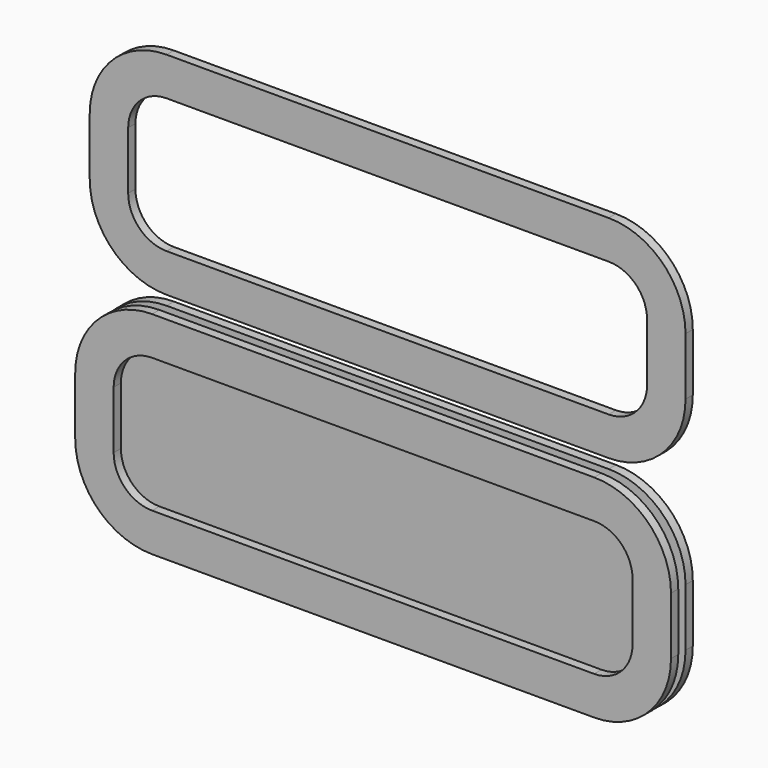
from build123d import *

# Parameters (mm, degrees)
F1_DEPTH = 6
F3_DEPTH = 6
F4_START = -6
F4_DEPTH = 6


with BuildPart() as f1:
    # F0 (on Front) → F1 (new body)
    with BuildSketch(Plane.XZ):
        with BuildLine():
            ThreePointArc((184.15, 25.4), (172.9907683632, 52.3407683632), (146.05, 63.5))
            Line((146.05, 63.5), (-146.05, 63.5))
            ThreePointArc((-146.05, 63.5), (-172.9907683632, 52.3407683632), (-184.15, 25.4))
            Line((-184.15, 25.4), (-184.15, -25.4))
            ThreePointArc((-184.15, -25.4), (-172.9907683632, -52.3407683632), (-146.05, -63.5))
            Line((-146.05, -63.5), (146.05, -63.5))
            ThreePointArc((146.05, -63.5), (172.9907683632, -52.3407683632), (184.15, -25.4))
            Line((184.15, -25.4), (184.15, 25.4))
        make_face()
    extrude(amount=-F1_DEPTH)


with BuildPart() as f3:
    # F2 (on Front) → F3 (new body)
    with BuildSketch(Plane.XZ):
        with BuildLine():
            ThreePointArc((196.85, 19.05), (181.9710244843, 54.9710244843), (146.05, 69.85))
            Line((146.05, 69.85), (-146.05, 69.85))
            ThreePointArc((-146.05, 69.85), (-181.9710244843, 54.9710244843), (-196.85, 19.05))
            Line((-196.85, 19.05), (-196.85, -19.05))
            ThreePointArc((-196.85, -19.05), (-181.9710244843, -54.9710244843), (-146.05, -69.85))
            Line((-146.05, -69.85), (146.05, -69.85))
            ThreePointArc((146.05, -69.85), (181.9710244843, -54.9710244843), (196.85, -19.05))
            Line((196.85, -19.05), (196.85, 19.05))
        make_face()
        with BuildLine():
            Line((-146.05, 44.45), (146.05, 44.45))
            ThreePointArc((146.05, 44.45), (164.0105122421, 37.0105122421), (171.45, 19.05))
            Line((171.45, 19.05), (171.45, -19.05))
            ThreePointArc((171.45, -19.05), (164.0105122421, -37.0105122421), (146.05, -44.45))
            Line((146.05, -44.45), (-146.05, -44.45))
            ThreePointArc((-146.05, -44.45), (-164.0105122421, -37.0105122421), (-171.45, -19.05))
            Line((-171.45, -19.05), (-171.45, 19.05))
            ThreePointArc((-171.45, 19.05), (-164.0105122421, 37.0105122421), (-146.05, 44.45))
        make_face(mode=Mode.SUBTRACT)
    extrude(amount=F3_DEPTH)


with BuildPart() as f4:
    # F2 (on Front) → F4 (new body)
    with BuildSketch(Plane.XZ.offset(F4_START)):
        with BuildLine():
            ThreePointArc((196.85, 19.05), (181.9710244843, 54.9710244843), (146.05, 69.85))
            Line((146.05, 69.85), (-146.05, 69.85))
            ThreePointArc((-146.05, 69.85), (-181.9710244843, 54.9710244843), (-196.85, 19.05))
            Line((-196.85, 19.05), (-196.85, -19.05))
            ThreePointArc((-196.85, -19.05), (-181.9710244843, -54.9710244843), (-146.05, -69.85))
            Line((-146.05, -69.85), (146.05, -69.85))
            ThreePointArc((146.05, -69.85), (181.9710244843, -54.9710244843), (196.85, -19.05))
            Line((196.85, -19.05), (196.85, 19.05))
        make_face()
        with BuildLine():
            Line((-146.05, 44.45), (146.05, 44.45))
            ThreePointArc((146.05, 44.45), (164.0105122421, 37.0105122421), (171.45, 19.05))
            Line((171.45, 19.05), (171.45, -19.05))
            ThreePointArc((171.45, -19.05), (164.0105122421, -37.0105122421), (146.05, -44.45))
            Line((146.05, -44.45), (-146.05, -44.45))
            ThreePointArc((-146.05, -44.45), (-164.0105122421, -37.0105122421), (-171.45, -19.05))
            Line((-171.45, -19.05), (-171.45, 19.05))
            ThreePointArc((-171.45, 19.05), (-164.0105122421, 37.0105122421), (-146.05, 44.45))
        make_face(mode=Mode.SUBTRACT)
    extrude(amount=-F4_DEPTH)


with BuildPart() as f4b:
    # F2 (on Front) → F4, piece 2 (new body)
    with BuildSketch(Plane.XZ.offset(F4_START)):
        with BuildLine():
            ThreePointArc((196.85, 165.1), (181.9710244843, 201.0210244843), (146.05, 215.9))
            Line((146.05, 215.9), (-146.05, 215.9))
            ThreePointArc((-146.05, 215.9), (-181.9710244843, 201.0210244843), (-196.85, 165.1))
            Line((-196.85, 165.1), (-196.85, 127))
            ThreePointArc((-196.85, 127), (-181.9710244843, 91.0789755157), (-146.05, 76.2))
            Line((-146.05, 76.2), (146.05, 76.2))
            ThreePointArc((146.05, 76.2), (181.9710244843, 91.0789755157), (196.85, 127))
            Line((196.85, 127), (196.85, 165.1))
        make_face()
        with BuildLine():
            ThreePointArc((171.45, 127), (164.0105122421, 109.0394877579), (146.05, 101.6))
            Line((146.05, 101.6), (-146.05, 101.6))
            ThreePointArc((-146.05, 101.6), (-164.0105122421, 109.0394877579), (-171.45, 127))
            Line((-171.45, 127), (-171.45, 165.1))
            ThreePointArc((-171.45, 165.1), (-164.0105122421, 183.0605122421), (-146.05, 190.5))
            Line((-146.05, 190.5), (146.05, 190.5))
            ThreePointArc((146.05, 190.5), (164.0105122421, 183.0605122421), (171.45, 165.1))
            Line((171.45, 165.1), (171.45, 127))
        make_face(mode=Mode.SUBTRACT)
    extrude(amount=-F4_DEPTH)


solid = Compound([f1.part, f3.part, f4.part, f4b.part])
